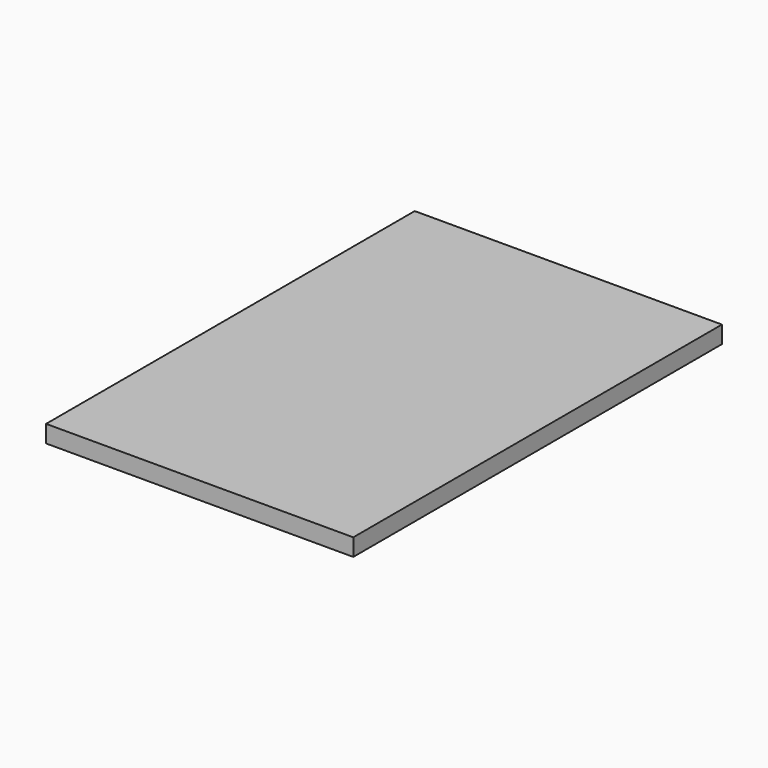
from build123d import *

# Parameters (mm, degrees)
SKETCH_W  = 88.9
SKETCH_H  = 133.35
PAD_DEPTH = 5


with BuildPart() as part:
    # Sketch → Pad (new body)
    with BuildSketch(Plane.XY):
        Rectangle(SKETCH_W, SKETCH_H)
    extrude(amount=PAD_DEPTH)


solid = part.part
